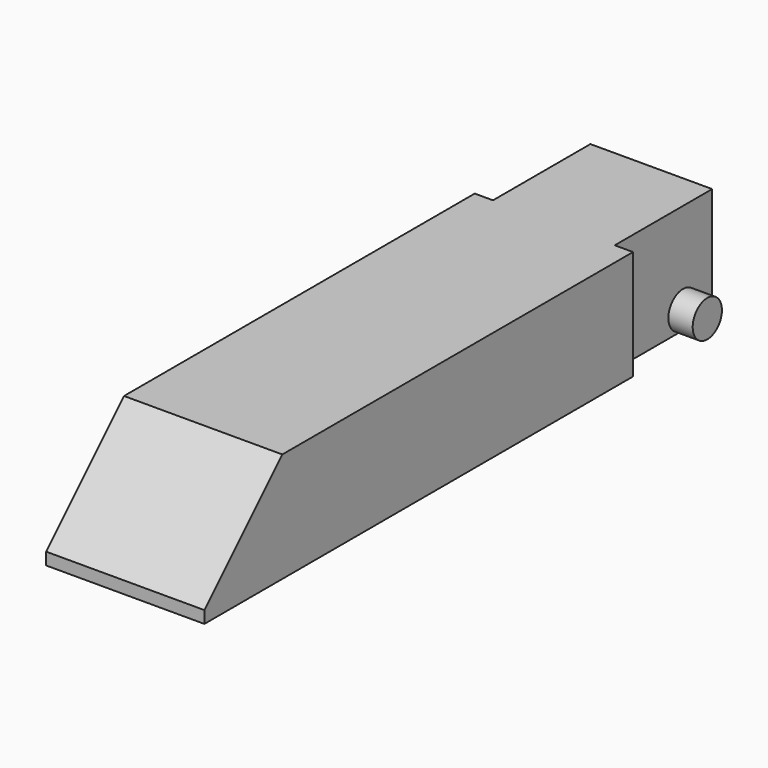
from build123d import *

# Parameters (mm, degrees)
PAD_DEPTH    = 9
SKETCH001_R  = 1.5
PAD001_DEPTH = 7
SKETCH002_R  = 2
POCKET_DEPTH = 2
SKETCH003_R  = 3
PAD002_DEPTH = 3
FILLET_R     = 2.75
CHAMFER_SIZE = 8


with BuildPart() as part:
    # Sketch → Pad (new body)
    with BuildSketch(Plane.XY):
        Polygon((6.5, -11), (6.5, 33), (5, 33), (5, 43), (-5, 43), (-5, 33), (-6.5, 33), (-6.5, -11), align=None)
    extrude(amount=PAD_DEPTH)

    # Sketch001 → Pad001 (join, symmetric)
    with BuildSketch(Plane.YZ):
        with Locations((40, 1.5)):
            Circle(SKETCH001_R)
    extrude(amount=PAD001_DEPTH, both=True)

    # Sketch002 (on Face4 of Pad001) → Pocket (cut)
    with BuildSketch(Plane(origin=(0, 0, 0), x_dir=(1, 0, 0), z_dir=(0, 0, -1))):
        with Locations((0, 1)):
            Circle(SKETCH002_R)
    extrude(amount=-POCKET_DEPTH, mode=Mode.SUBTRACT)

    # Sketch003 (on Face4 of Pocket) → Pad002 (join)
    with BuildSketch(Plane(origin=(0, 0, 0), x_dir=(1, 0, 0), z_dir=(0, 0, -1))):
        with Locations((0, -23)):
            Circle(SKETCH003_R)
    extrude(amount=PAD002_DEPTH)

    # Fillet
    fillet_edges = [part.edges().sort_by_distance(p)[0] for p in [
        (-3, 23, -3),
    ]]
    fillet(fillet_edges, radius=FILLET_R)

    # Chamfer
    chamfer_edges = [part.edges().sort_by_distance(p)[0] for p in [
        (0, -11, 9),
    ]]
    chamfer(chamfer_edges, length=CHAMFER_SIZE)


solid = part.part
